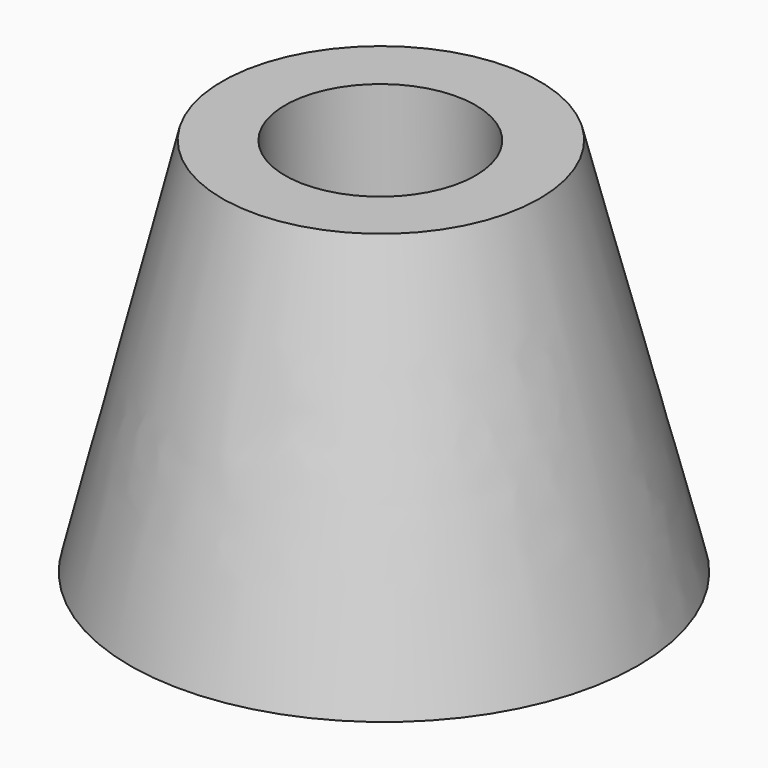
from build123d import *

# Parameters (mm, degrees)
F0_R     = 2.5
F0_R_2   = 1.5
F1_DEPTH = 6
F2_R     = 2.5
F3_R     = 4
F5_R     = 1.5
F6_DEPTH = 4


with BuildPart() as f1:
    # F0 (on Top) → F1 (new body)
    with BuildSketch(Plane.XY):
        Circle(F0_R)
        Circle(F0_R_2, mode=Mode.SUBTRACT)
    extrude(amount=F1_DEPTH)

    # F2 (on face) → F4 section 0
    with BuildSketch(Plane.XY.offset(6)):
        Circle(F2_R)
    # F3 (on face) → F4 section 1
    with BuildSketch(Plane.XY):
        with Locations((0.01406, 0.042179)):
            Circle(F3_R)
    loft()

    # F5 (on face) → F6 (cut)
    with BuildSketch(Plane.XY.offset(6)):
        with Locations((0.001315, -0.013137)):
            Circle(F5_R)
    extrude(amount=-F6_DEPTH, mode=Mode.SUBTRACT)


solid = f1.part
